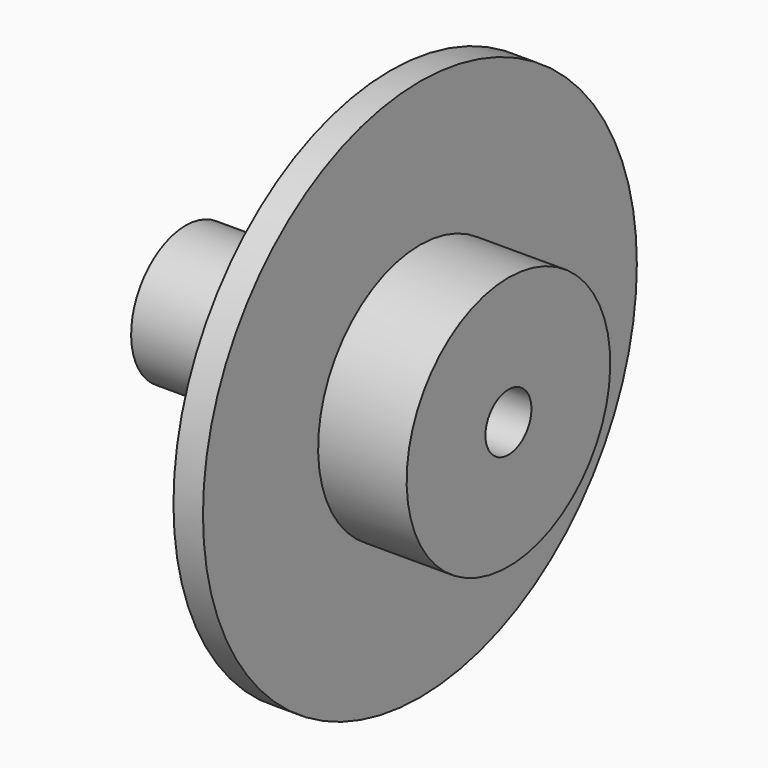
from build123d import *

# Parameters (mm, degrees)
F0_W = 3.9116
F0_H = 19.0754
F3_D = 7.62


with BuildPart() as f1:
    # F0 (on Front) → F1 (revolve)
    with BuildSketch(Plane.XZ):
        Polygon((-42.7736, 0), (0, 0), (0, 9.0424), (-25.6286, 9.0424), (-42.7736, 9.0424), align=None)
        Polygon((-25.6286, 9.0424), (0, 9.0424), (0, 16.8656), (-11.7348, 16.8656), (-15.6464, 16.8656), (-25.6286, 16.8656), align=None)
        with Locations((-13.6906, 26.4033)):
            Rectangle(F0_W, F0_H)
    revolve(axis=Axis((-21.3868, 0, 0), (-1, 0, 0)))

    # F3 (through all)
    with Locations(Plane.YZ):
        with Locations((0, 0)):
            Hole(F3_D / 2)


solid = f1.part
